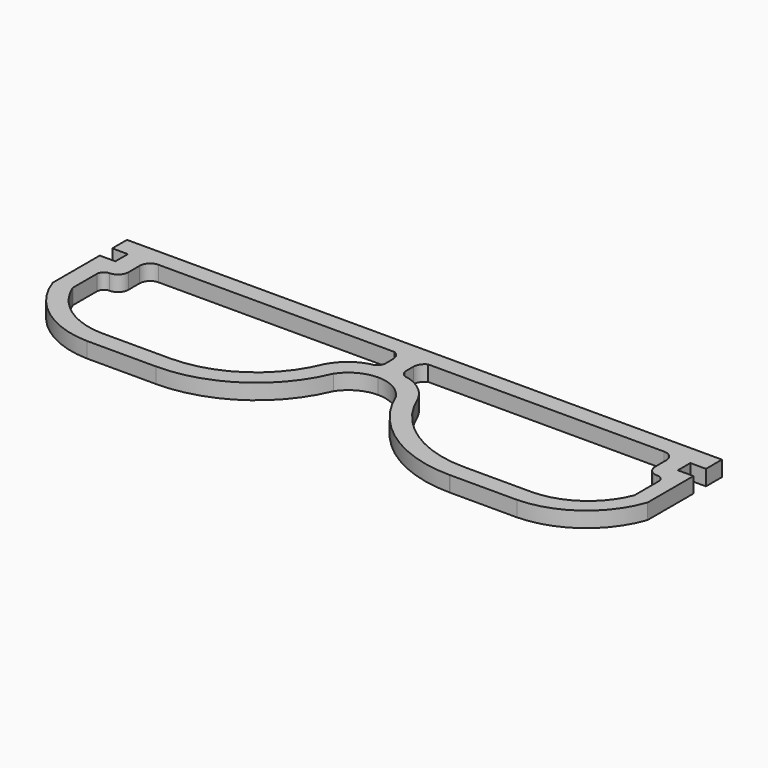
from build123d import *

# Parameters (mm, degrees)
F1_DEPTH = 4.4


with BuildPart() as f1:
    # F0 (on Top) → F1 (new body)
    with BuildSketch(Plane.XY):
        with BuildLine():
            ThreePointArc((-12.44334, -91.95904), (-8.617964, -88.425467), (-3.570689, -87.143026))
            Line((-3.570689, -87.143026), (-3.570689, -70.3213))
            Line((-3.570689, -70.3213), (-82.913134, -70.3213))
            Line((-82.913134, -70.3213), (-88.507661, -70.3213))
            Line((-88.507661, -70.3213), (-88.507661, -75.559488))
            Line((-88.507661, -75.559488), (-84.057661, -75.559488))
            Line((-84.057661, -75.559488), (-84.057661, -80.009488))
            Line((-84.057661, -80.009488), (-88.507661, -80.009488))
            Line((-88.507661, -80.009488), (-88.507661, -96.734692))
            ThreePointArc((-88.507661, -96.734692), (-79.443295, -109.014634), (-64.98152, -113.89488))
            Line((-64.98152, -113.89488), (-45.348551, -113.89488))
            ThreePointArc((-45.348551, -113.89488), (-25.575249, -107.908225), (-12.44334, -91.95904))
        make_face()
        with BuildLine():
            ThreePointArc((-78.507661, -78.3213), (-77.628981, -76.199979), (-75.507661, -75.3213))
            Line((-75.507661, -75.3213), (-8.347679, -75.3213))
            ThreePointArc((-8.347679, -75.3213), (-6.986534, -76.530687), (-6.480797, -78.279848))
            Line((-6.480797, -78.279848), (-6.480797, -81.040353))
            Line((-6.480797, -81.040353), (-6.480797, -81.041593))
            ThreePointArc((-6.480797, -81.041593), (-7.309408, -82.599272), (-8.960268, -83.221863))
            ThreePointArc((-8.960268, -83.221863), (-13.595876, -85.631372), (-16.90926, -89.67069))
            ThreePointArc((-16.90926, -89.67069), (-28.184907, -103.637987), (-45.348551, -108.89488))
            Line((-45.348551, -108.89488), (-64.926874, -108.89488))
            ThreePointArc((-64.926874, -108.89488), (-76.195022, -105.191008), (-83.507661, -95.852104))
            Line((-83.507661, -95.852104), (-83.507661, -87.279848))
            ThreePointArc((-83.507661, -87.279848), (-82.921875, -85.865634), (-81.507661, -85.279848))
            ThreePointArc((-81.507661, -85.279848), (-79.386341, -84.401168), (-78.507661, -82.279848))
            Line((-78.507661, -82.279848), (-78.507661, -78.3213))
        make_face(mode=Mode.SUBTRACT)
        with BuildLine():
            Line((80.823653, -96.734275), (80.823653, -85.451687))
            Line((80.823653, -85.451687), (80.823653, -80.451687))
            Line((80.823653, -80.451687), (76.373653, -80.449196))
            Line((76.373653, -80.449196), (76.376145, -75.999196))
            Line((76.376145, -75.999196), (80.823653, -76.001686))
            Line((80.823653, -76.001686), (80.823653, -75.281577))
            Line((80.823653, -75.281577), (80.823653, -70.3213))
            Line((80.823653, -70.3213), (76.384345, -70.3213))
            Line((76.384345, -70.3213), (75.771756, -70.3213))
            Line((75.771756, -70.3213), (-3.570689, -70.3213))
            Line((-3.570689, -70.3213), (-3.570689, -87.143026))
            ThreePointArc((-3.570689, -87.143026), (1.080367, -88.217483), (4.786777, -91.225688))
            ThreePointArc((4.786777, -91.225688), (5.069545, -91.596309), (5.335725, -91.979017))
            ThreePointArc((5.335725, -91.979017), (18.457726, -107.907175), (38.207173, -113.894871))
            ThreePointArc((38.207173, -113.894871), (38.219889, -113.894877), (38.232605, -113.89488))
            Line((38.232605, -113.89488), (57.294375, -113.89488))
            ThreePointArc((57.294375, -113.89488), (71.758098, -109.01535), (80.823653, -96.734275))
        make_face()
        with BuildLine():
            ThreePointArc((9.767882, -89.67069), (9.689205, -89.523601), (9.608648, -89.377533))
            ThreePointArc((9.608648, -89.377533), (6.324286, -85.527112), (1.818889, -83.221863))
            ThreePointArc((1.818889, -83.221863), (0.16803, -82.599272), (-0.660581, -81.041593))
            Line((-0.660581, -81.041593), (-0.660581, -81.040353))
            Line((-0.660581, -81.040353), (-0.660581, -78.279848))
            ThreePointArc((-0.660581, -78.279848), (-0.154844, -76.530687), (1.206301, -75.3213))
            Line((1.206301, -75.3213), (68.366283, -75.3213))
            ThreePointArc((68.366283, -75.3213), (70.487603, -76.199979), (71.366283, -78.3213))
            Line((71.366283, -78.3213), (71.366283, -82.279848))
            ThreePointArc((71.366283, -82.279848), (72.244962, -84.401168), (74.366283, -85.279848))
            ThreePointArc((74.366283, -85.279848), (75.780496, -85.865634), (76.366283, -87.279848))
            Line((76.366283, -87.279848), (76.366283, -95.852104))
            ThreePointArc((76.366283, -95.852104), (69.053644, -105.191008), (57.785496, -108.89488))
            Line((57.785496, -108.89488), (38.207173, -108.89488))
            ThreePointArc((38.207173, -108.89488), (21.043529, -103.637987), (9.767882, -89.67069))
        make_face(mode=Mode.SUBTRACT)
    extrude(amount=F1_DEPTH)


solid = f1.part
